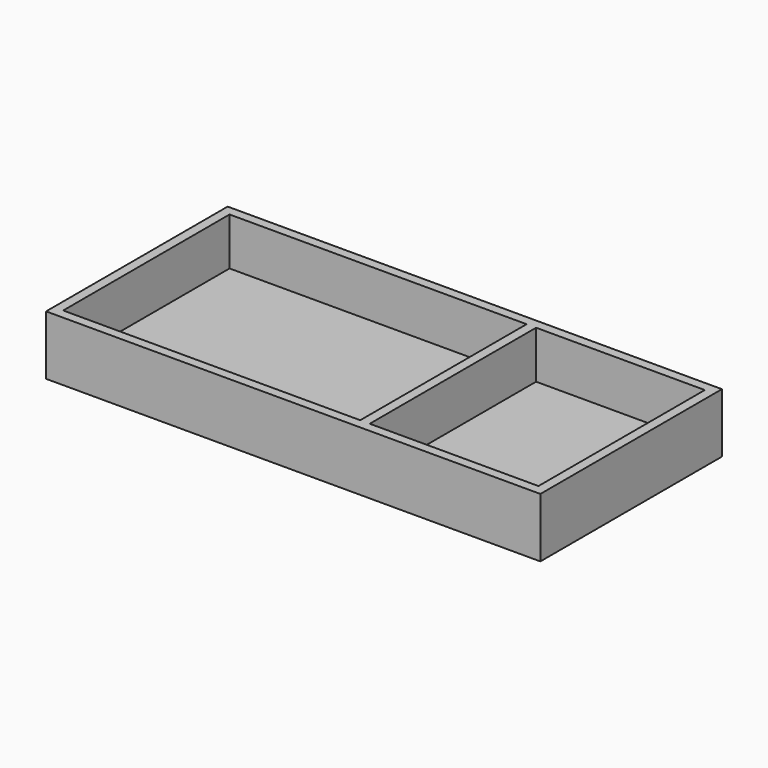
from build123d import *

# Parameters (mm, degrees)
F0_W     = 264.16
F0_H     = 121.285
F0_W_2   = 158.75
F0_H_2   = 111.125
F0_W_3   = 90.17
F1_DEPTH = 31.75
F2_DEPTH = 6.35


with BuildPart() as f1:
    # F0 (on Top) → F1 (new body)
    with BuildSketch(Plane.XY):
        with Locations((4.004986, 9.127274)):
            Rectangle(F0_W, F0_H)
        with Locations((-43.620014, 9.127274)):
            Rectangle(F0_W_2, F0_H_2, mode=Mode.SUBTRACT)
        with Locations((85.919986, 9.127274)):
            Rectangle(F0_W_3, F0_H_2, mode=Mode.SUBTRACT)
    extrude(amount=F1_DEPTH)

    # F0 (on Top) → F2 (join)
    with BuildSketch(Plane.XY):
        with Locations((-43.620014, 9.127274)):
            Rectangle(F0_W_2, F0_H_2)
        with Locations((85.919986, 9.127274)):
            Rectangle(F0_W_3, F0_H_2)
    extrude(amount=F2_DEPTH)


solid = f1.part
